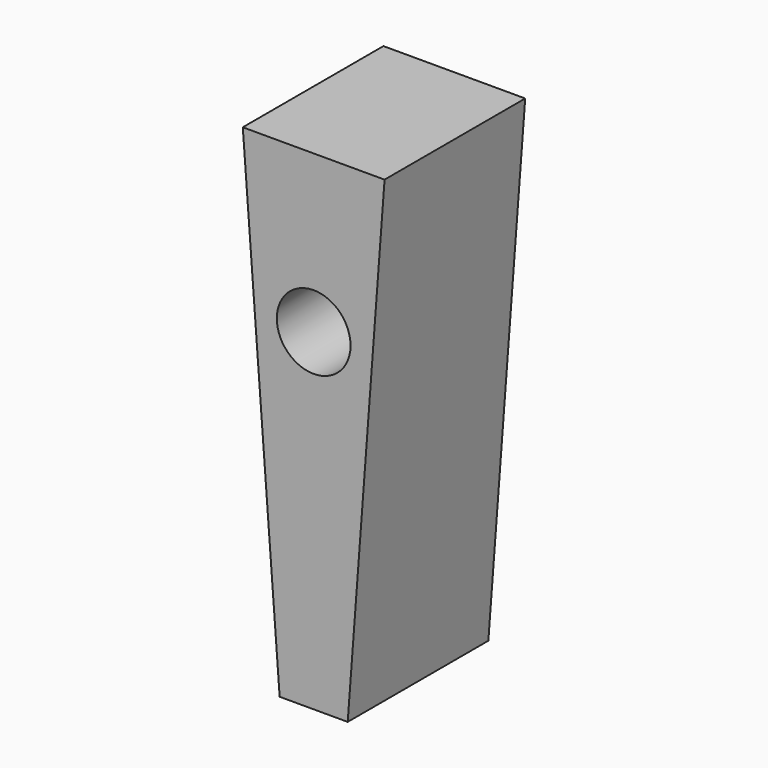
from build123d import *

# Parameters (mm, degrees)
F0_W     = 25
F0_H     = 31
F1_DEPTH = 86.3
F2_R     = 6.5
F3_DEPTH = 31.5
F5_DEPTH = 31.001


with BuildPart() as f1:
    # F0 (on Top) → F1 (new body)
    with BuildSketch(Plane.XY):
        Rectangle(F0_W, F0_H)
    extrude(amount=F1_DEPTH)

    # F2 (on Front) → F3 (cut, symmetric)
    with BuildSketch(Plane.XZ):
        with Locations((0, 58.577)):
            Circle(F2_R)
    extrude(amount=F3_DEPTH, both=True, mode=Mode.SUBTRACT)

    # F4 (on face) → F5 (cut, through all)
    with BuildSketch(Plane(origin=(0, 15.5, 0), x_dir=(-1, 0, 0), z_dir=(0, 1, 0))):
        Polygon((12.5, 0), (12.5, 86.3), (6, 0), align=None)
        Polygon((-6, 0), (-12.5, 86.3), (-12.5, 0), align=None)
    extrude(amount=-F5_DEPTH, mode=Mode.SUBTRACT)


solid = f1.part
